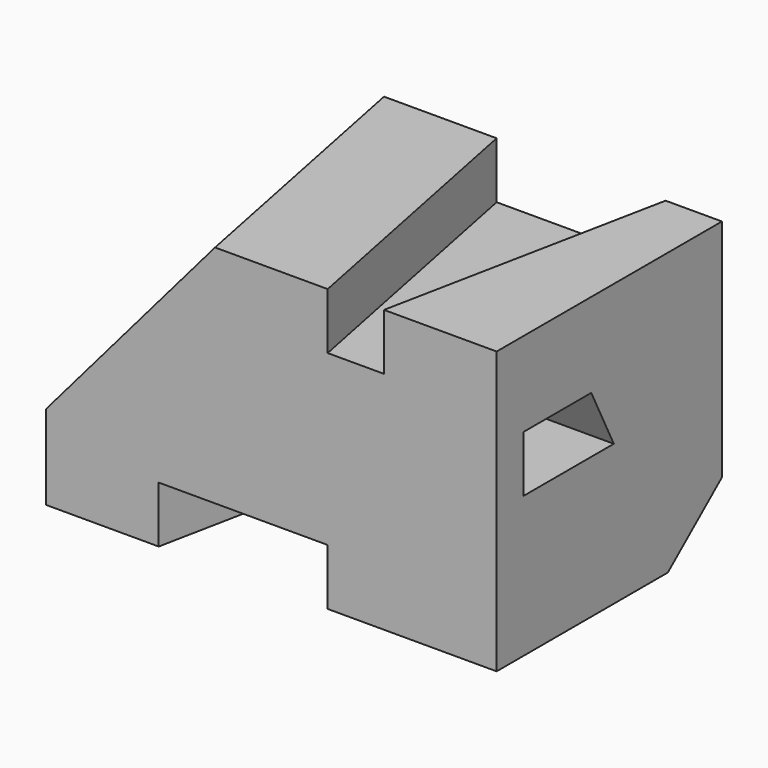
from build123d import *

# Parameters (mm, degrees)
F0_W     = 80
F0_H     = 50
F1_DEPTH = 50
F3_DEPTH = 25
F5_DEPTH = 10
F7_DEPTH = 10
F9_DEPTH = 15


with BuildPart() as f1:
    # F0 (on Top) → F1 (new body)
    with BuildSketch(Plane.XY):
        with Locations((40, 25)):
            Rectangle(F0_W, F0_H)
    extrude(amount=F1_DEPTH)

    # F2 (on face) → F3 (cut)
    with BuildSketch(Plane.YZ.offset(80)):
        Polygon((21, 35), (6, 35), (6, 25), (26, 25), align=None)
    extrude(amount=-F3_DEPTH, mode=Mode.SUBTRACT)

    # F4 (on face) → F5 (cut)
    with BuildSketch(Plane(origin=(0, 0, 0), x_dir=(1, 0, 0), z_dir=(0, 0, -1))):
        Polygon((50, 0), (20, 0), (30, -50), (40, -50), align=None)
    extrude(amount=-F5_DEPTH, mode=Mode.SUBTRACT)

    # F6 (on face) → F7 (cut)
    with BuildSketch(Plane.XY.offset(50)):
        Polygon((70, 50), (40, 50), (50, 0), (60, 0), align=None)
    extrude(amount=-F7_DEPTH, mode=Mode.SUBTRACT)

    # F8 (on face) → F9 (cut)
    with BuildSketch(Plane.YZ.offset(80)):
        Polygon((50, 10), (38, 0), (50, 0), align=None)
    extrude(amount=-F9_DEPTH, mode=Mode.SUBTRACT)

    # F12: sweep along a path in F11
    with BuildLine(Plane.XZ) as f12_path:
        Line((30, 50), (0, 15))
    # F10 (on face) → F12 (sweep, cut)
    with BuildSketch(Plane.XY.offset(50)):
        Polygon((0, 0), (30, 0), (20, 50), (0, 50), align=None)
    sweep(path=f12_path.line, mode=Mode.SUBTRACT)


solid = f1.part
